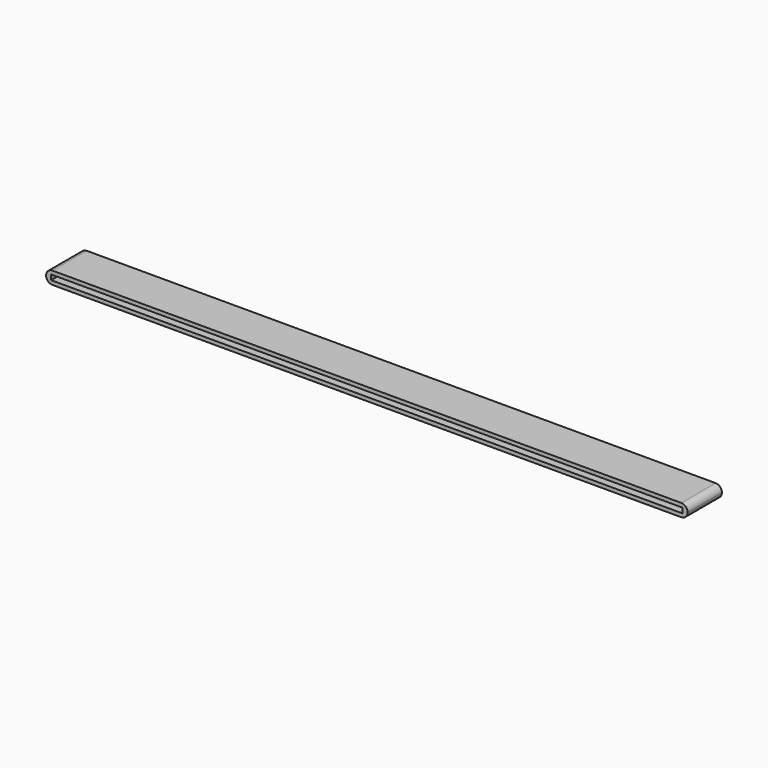
from build123d import *

# Parameters (mm, degrees)
SKETCH_W     = 254
SKETCH_H     = 17
PAD_DEPTH    = 5
SKETCH001_W  = 250
SKETCH001_H  = 2
POCKET_DEPTH = 15
FILLET_R     = 2.49


with BuildPart() as part:
    # Sketch → Pad (new body)
    with BuildSketch(Plane.XY):
        Rectangle(SKETCH_W, SKETCH_H)
    extrude(amount=PAD_DEPTH)

    # Sketch001 (on Face2 of Pad) → Pocket (cut)
    with BuildSketch(Plane.XZ.offset(8.5)):
        with Locations((0, 2.5)):
            Rectangle(SKETCH001_W, SKETCH001_H)
    extrude(amount=-POCKET_DEPTH, mode=Mode.SUBTRACT)

    # Fillet
    fillet_edges = [part.edges().sort_by_distance(p)[0] for p in [
        (127, 0, 5),
        (127, 0, 0),
        (-127, 0, 0),
        (-127, 0, 5),
    ]]
    fillet(fillet_edges, radius=FILLET_R)


solid = part.part
